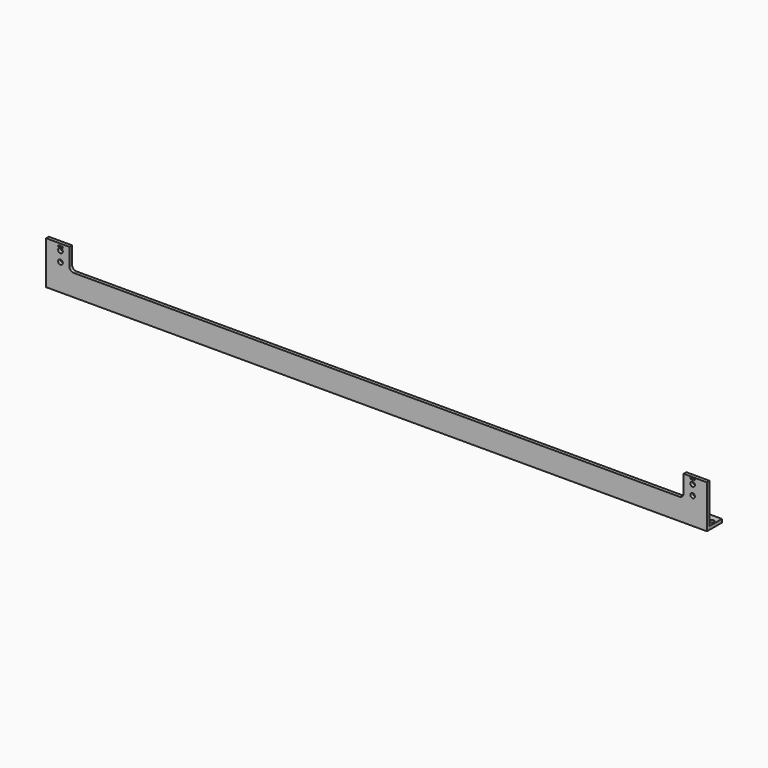
from build123d import *

# Parameters (mm, degrees)
PAD_DEPTH         = 460
POCKET_DEPTH      = 26.001
POCKET_DEPTH_BACK = 0.001
SKETCH002_R       = 3
HOLE_DEPTH        = 25
SKETCH003_R       = 3.25
POCKET001_DEPTH   = 4.701


with BuildPart() as part:
    # Sketch → Pad (new body, symmetric)
    with BuildSketch(Plane.YZ):
        Polygon((0, 60), (4.7, 60), (4.7, 4.7), (26, 4.7), (26, 0), (0, 0), align=None)
    extrude(amount=PAD_DEPTH, both=True)

    # Sketch001 (on Face3 of Pad) → Pocket (cut, two sides)
    with BuildSketch(Plane(origin=(0, 0, 0), x_dir=(0, 0, -1), z_dir=(0, -1, 0))) as pocket_sk:
        with BuildLine():
            Line((-70, -427.5), (-36, -427.5))
            ThreePointArc((-36, -427.5), (-31.757359, -425.742641), (-30, -421.5))
            Line((-30, -421.5), (-30, 421.5))
            ThreePointArc((-30, 421.5), (-31.757359, 425.742641), (-36, 427.5))
            Line((-36, 427.5), (-70, 427.5))
            Line((-70, 427.5), (-70, -427.5))
        make_face()
    extrude(amount=-POCKET_DEPTH, mode=Mode.SUBTRACT)
    extrude(pocket_sk.sketch, amount=POCKET_DEPTH_BACK, mode=Mode.SUBTRACT)

    # Sketch002 (on Face2 of Pocket) → Hole (cut)
    with BuildSketch(Plane(origin=(0, 0, 4.7), x_dir=(0, -1, 0), z_dir=(0, 0, 1))):
        with Locations((-14.7, 455)):
            Circle(SKETCH002_R)
        with Locations((-14.7, 409.5)):
            Circle(SKETCH002_R)
        with Locations((-14.7, 364)):
            Circle(SKETCH002_R)
        with Locations((-14.7, 318.5)):
            Circle(SKETCH002_R)
        with Locations((-14.7, 273)):
            Circle(SKETCH002_R)
        with Locations((-14.7, 227.5)):
            Circle(SKETCH002_R)
        with Locations((-14.7, 182)):
            Circle(SKETCH002_R)
        with Locations((-14.7, 136.5)):
            Circle(SKETCH002_R)
        with Locations((-14.7, 91)):
            Circle(SKETCH002_R)
        with Locations((-14.7, 45.5)):
            Circle(SKETCH002_R)
        with Locations((-14.7, 0)):
            Circle(SKETCH002_R)
        with Locations((-14.7, -45.5)):
            Circle(SKETCH002_R)
        with Locations((-14.7, -91)):
            Circle(SKETCH002_R)
        with Locations((-14.7, -136.5)):
            Circle(SKETCH002_R)
        with Locations((-14.7, -182)):
            Circle(SKETCH002_R)
        with Locations((-14.7, -227.5)):
            Circle(SKETCH002_R)
        with Locations((-14.7, -273)):
            Circle(SKETCH002_R)
        with Locations((-14.7, -318.5)):
            Circle(SKETCH002_R)
        with Locations((-14.7, -364)):
            Circle(SKETCH002_R)
        with Locations((-14.7, -409.5)):
            Circle(SKETCH002_R)
        with Locations((-14.7, -455)):
            Circle(SKETCH002_R)
    extrude(amount=-HOLE_DEPTH, mode=Mode.SUBTRACT)

    # Sketch003 (on Face6 of Hole) → Pocket001 (cut, through all)
    with BuildSketch(Plane.ZX.offset(4.7)):
        with Locations((37.3, -440)):
            Circle(SKETCH003_R)
        with Locations((51.3, -440)):
            Circle(SKETCH003_R)
        with Locations((37.3, 440)):
            Circle(SKETCH003_R)
        with Locations((51.3, 440)):
            Circle(SKETCH003_R)
        with BuildLine():
            ThreePointArc((57, -437.75), (56, -436.75), (55, -437.75))
            Line((55, -437.75), (55, -442.25))
            ThreePointArc((55, -442.25), (56, -443.25), (57, -442.25))
            Line((57, -437.75), (57, -442.25))
        make_face()
        with BuildLine():
            Line((57, 437.75), (57, 442.25))
            ThreePointArc((59, 442.25), (58, 443.25), (57, 442.25))
            Line((59, 442.25), (59, 437.75))
            ThreePointArc((57, 437.75), (58, 436.75), (59, 437.75))
        make_face()
    extrude(amount=-POCKET001_DEPTH, mode=Mode.SUBTRACT)


solid = part.part
